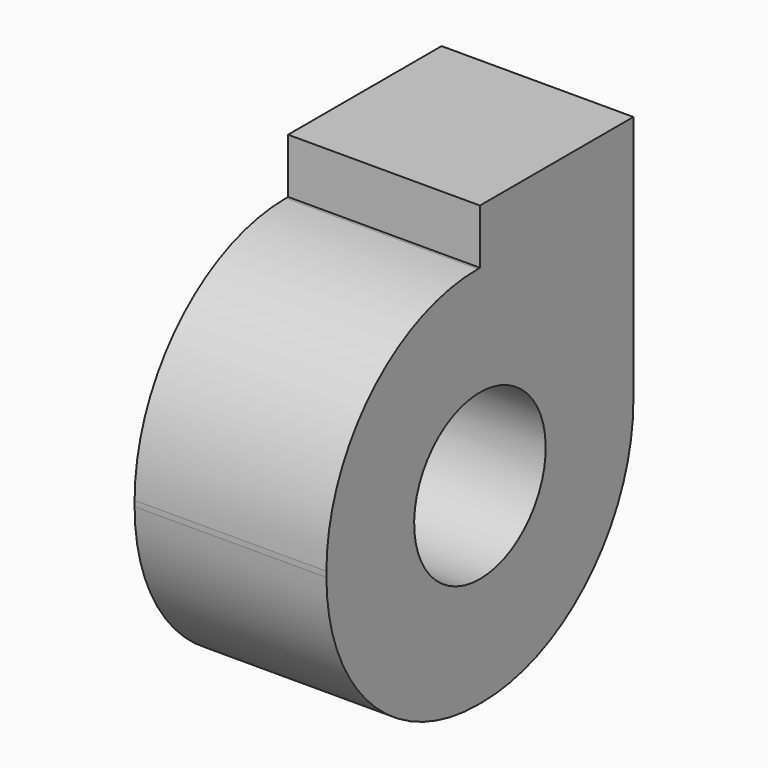
from build123d import *

# Parameters (mm, degrees)
BOX012_W          = 3.5
BOX012_H          = 3.5
BOX012_DEPTH      = 1
CYLINDER003_R     = 1.5
CYLINDER003_DEPTH = 20
BOX011_W          = 3.5
BOX011_H          = 7
BOX011_DEPTH      = 7
FILLET002008002_R = 3.45


with BuildPart() as cube012:
    # Box012 → Box012 (new body)
    with BuildSketch(Plane(origin=(57, 25, 25), x_dir=(1, 0, 0), z_dir=(0, 0, 1))):
        with Locations((1.75, 1.75)):
            Rectangle(BOX012_W, BOX012_H)
    extrude(amount=BOX012_DEPTH)


with BuildPart() as cylinder003:
    # Cylinder003 → Cylinder003 (new body)
    with BuildSketch(Plane(origin=(56, 23, 21.5), x_dir=(0, 0, -1), z_dir=(1, 0, 0))):
        Circle(CYLINDER003_R)
    extrude(amount=CYLINDER003_DEPTH)


with BuildPart() as fusion001:
    # Box011 → Box011 (new body)
    with BuildSketch(Plane(origin=(57, 19.5, 18), x_dir=(1, 0, 0), z_dir=(0, 0, 1))):
        with Locations((1.75, 3.5)):
            Rectangle(BOX011_W, BOX011_H)
    extrude(amount=BOX011_DEPTH)

    # Fillet002008002
    fillet002008002_edges = [fusion001.edges().sort_by_distance(p)[0] for p in [
        (58.75, 19.5, 18),
        (58.75, 19.5, 25),
        (58.75, 26.5, 18),
    ]]
    fillet(fillet002008002_edges, radius=FILLET002008002_R)

    # Cut001: cut Cylinder003
    add(cylinder003.part, mode=Mode.SUBTRACT)


with BuildPart() as fusion001_1:
    # Cut001 placement: moved
    add(fusion001.part.moved(Location((0, 2, 0))))

    # Fusion001: union Cube012
    add(cube012.part)


solid = fusion001_1.part
